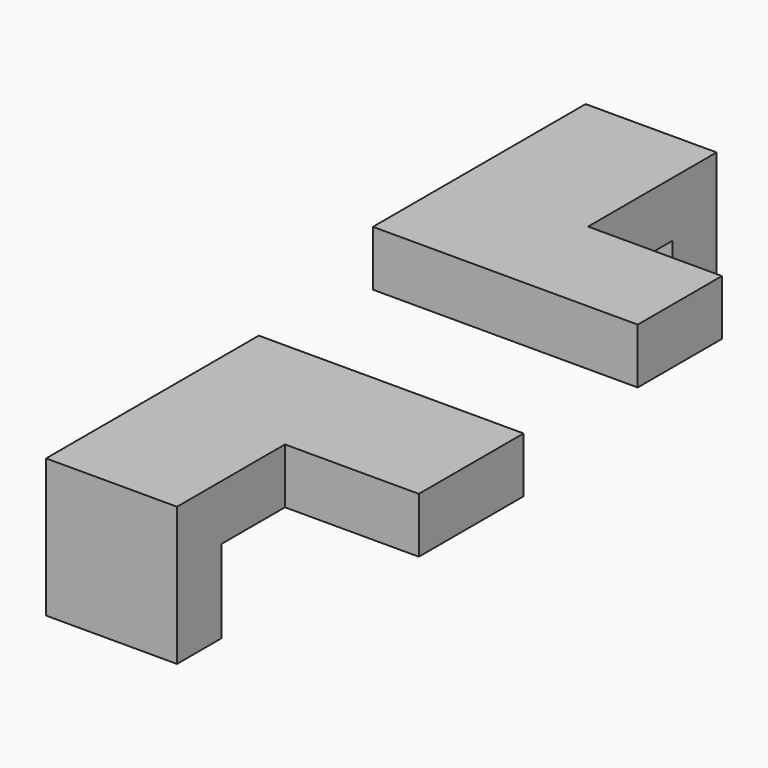
from build123d import *

# Parameters (mm, degrees)
F0_W      = 300.3042
F0_H      = 127
F1_DEPTH  = 404.1521
F2_W      = 300.3042
F2_H      = 127
F3_DEPTH  = 396.24
F4_DEPTH  = 86.6521
F5_W      = 241.44605
F5_H      = 127
F6_DEPTH  = 307.0479
F7_DEPTH  = 86.6648
F8_W      = 300.3042
F8_H      = 127
F9_DEPTH  = 317.5
F10_W     = 300.3042
F10_H     = 127
F11_DEPTH = 482.8794
F12_W     = 300.3042
F12_H     = 127
F13_DEPTH = 307.0606


with BuildPart() as f1:
    # F0 (on Top) → F1 (new body)
    with BuildSketch(Plane.XY):
        with Locations((150.1521, 63.5)):
            Rectangle(F0_W, F0_H)
    extrude(amount=F1_DEPTH)

    # F2 (on face) → F3 (join)
    with BuildSketch(Plane.XZ):
        with Locations((150.1521, 340.6521)):
            Rectangle(F2_W, F2_H)
    extrude(amount=F3_DEPTH)

    # F4 (add): a face of the model
    f4_faces = [f1.faces().sort_by_distance(p)[0] for p in [
        (150.1521, -396.24, 340.6521),
    ]]
    extrude(f4_faces, amount=F4_DEPTH)

    # F5 (on face) → F6 (join)
    with BuildSketch(Plane.YZ.offset(300.3042)):
        with Locations((-362.169075, 340.6521)):
            Rectangle(F5_W, F5_H)
    extrude(amount=F6_DEPTH)

    # F7 (cut): a face of the model
    f7_faces = [f1.faces().sort_by_distance(p)[0] for p in [
        (150.1521, 63.5, 0),
    ]]
    extrude(f7_faces, amount=-F7_DEPTH, mode=Mode.SUBTRACT)


with BuildPart() as f9:
    # F8 (on Top) → F9 (new body)
    with BuildSketch(Plane.XY):
        with Locations((150.1521, -1356.5204610825)):
            Rectangle(F8_W, F8_H)
    extrude(amount=F9_DEPTH)

    # F10 (on face) → F11 (join)
    with BuildSketch(Plane(origin=(0, -1293.0204610825, 0), x_dir=(-1, 0, 0), z_dir=(0, 1, 0))):
        with Locations((-150.1521, 254)):
            Rectangle(F10_W, F10_H)
    extrude(amount=F11_DEPTH)

    # F12 (on face) → F13 (join)
    with BuildSketch(Plane.YZ.offset(300.3042)):
        with Locations((-960.2931610825, 254)):
            Rectangle(F12_W, F12_H)
    extrude(amount=F13_DEPTH)


solid = Compound([f1.part, f9.part])
